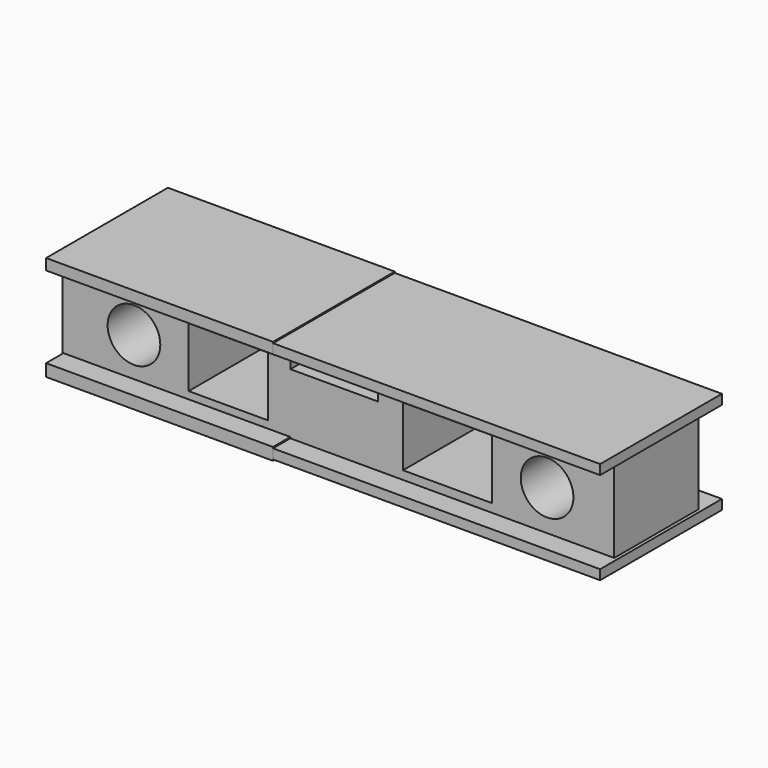
from build123d import *

# Parameters (mm, degrees)
F0_W     = 132.736026
F0_H     = 24.608365
F0_W_2   = 19.050001
F0_H_2   = 14.360769
F0_W_3   = 21.394616
F0_R     = 6.3373
F1_DEPTH = 25.4
F2_W     = 36.634613
F2_H     = 2.344616
F3_DEPTH = 78.74
F4_W     = 36.634616
F4_H     = 2.637692
F4_W_2   = 36.341539
F4_H_2   = 2.930769
F5_DEPTH = 54.61
F6_W     = 21.052692
F6_H     = 4.396153
F7_DEPTH = 50.8


with BuildPart() as f1:
    # F0 (on Front) → F1 (new body)
    with BuildSketch(Plane.XZ):
        with Locations((11.576537, 19.929231)):
            Rectangle(F0_W, F0_H)
        with Locations((-14.946923, 19.636154)):
            Rectangle(F0_W_2, F0_H_2, mode=Mode.SUBTRACT)
        with Locations((37.806922, 19.636154)):
            Rectangle(F0_W_3, F0_H_2, mode=Mode.SUBTRACT)
        with Locations((-37.640192, 20.053516)):
            Circle(F0_R, mode=Mode.SUBTRACT)
        with Locations((61.787547, 20.053516)):
            Circle(F0_R, mode=Mode.SUBTRACT)
    extrude(amount=F1_DEPTH)

    # F2 (on Right) → F3 (join)
    with BuildSketch(Plane.YZ):
        with Locations((-12.30923, 31.505771)):
            Rectangle(F2_W, F2_H)
        with Locations((-12.30923, 9.231923)):
            Rectangle(F2_W, F2_H)
    extrude(amount=F3_DEPTH)

    # F4 (on Right) → F5 (join)
    with BuildSketch(Plane.YZ):
        with Locations((-12.309231, 31.652309)):
            Rectangle(F4_W, F4_H)
        with Locations((-12.455769, 9.231924)):
            Rectangle(F4_W_2, F4_H_2)
    extrude(amount=-F5_DEPTH)

    # F6 (on Front) → F7 (cut)
    with BuildSketch(Plane.XZ):
        with Locations((10.526346, 27.256155)):
            Rectangle(F6_W, F6_H)
    extrude(amount=F7_DEPTH, mode=Mode.SUBTRACT)


solid = f1.part
